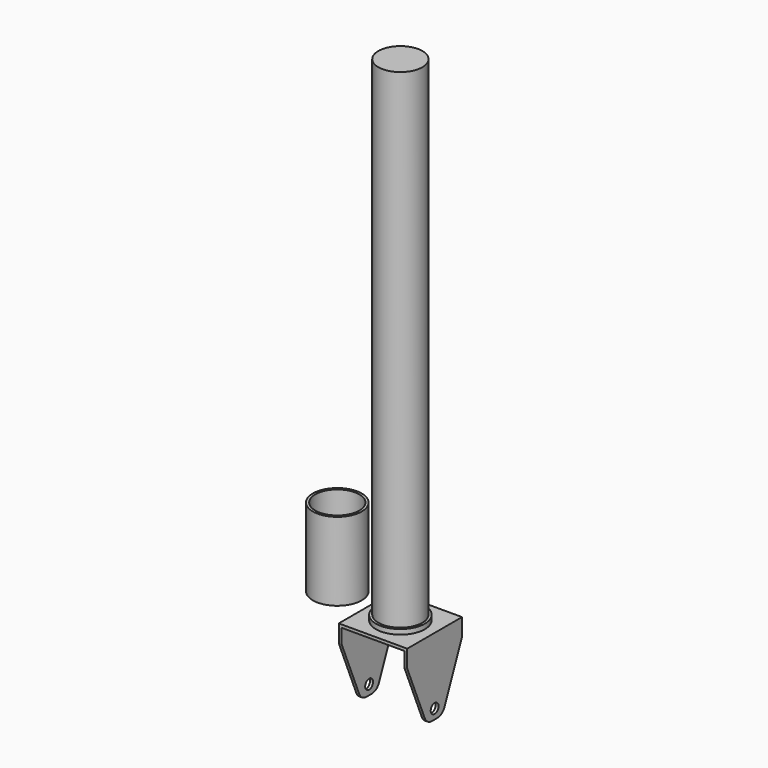
from build123d import *

# Parameters (mm, degrees)
F0_R      = 25
F0_R_2    = 22.5
F1_DEPTH  = 80
F2_R      = 22.5
F3_DEPTH  = 500
F4_R      = 25
F5_DEPTH  = 5
F6_W      = 70
F6_H      = 70
F7_DEPTH  = 3
F8_W      = 3
F8_H      = 70
F9_DEPTH  = 75
F10_SIZE2 = 60
F10_SIZE  = 25
F11_SIZE2 = 60
F11_SIZE  = 25
F13_D     = 10
F14_R     = 10


with BuildPart() as f1:
    # F0 (on Top) → F1 (new body)
    with BuildSketch(Plane.XY):
        with Locations((-100.1517296412, 0)):
            Circle(F0_R)
        with Locations((-100.1517296412, 0)):
            Circle(F0_R_2, mode=Mode.SUBTRACT)
    extrude(amount=F1_DEPTH)


with BuildPart() as f3:
    # F2 (on Top) → F3 (new body)
    with BuildSketch(Plane.XY):
        with Locations((-35.6460149927, 0)):
            Circle(F2_R)
    extrude(amount=F3_DEPTH)

    # F4 (on face) → F5 (join)
    with BuildSketch(Plane(origin=(0, 0, 0), x_dir=(1, 0, 0), z_dir=(0, 0, -1))):
        with Locations((-35.6460149927, 0)):
            Circle(F4_R)
    extrude(amount=F5_DEPTH)

    # F6 (on face) → F7 (join)
    with BuildSketch(Plane(origin=(0, 0, -5), x_dir=(1, 0, 0), z_dir=(0, 0, -1))):
        with Locations((-35.6460149927, 0)):
            Rectangle(F6_W, F6_H)
    extrude(amount=F7_DEPTH)

    # F8 (on face) → F9 (join)
    with BuildSketch(Plane(origin=(0, 0, -8), x_dir=(1, 0, 0), z_dir=(0, 0, -1))):
        with Locations((-69.1460149927, 0)):
            Rectangle(F8_W, F8_H)
        with Locations((-2.1460149927, 0)):
            Rectangle(F8_W, F8_H)
    extrude(amount=F9_DEPTH)

    # F10
    f10_edges = [f3.edges().sort_by_distance(p)[0] for p in [
        (-69.146015, -35, -83),
        (-69.146015, 35, -83),
    ]]
    f10_side = f3.faces().sort_by_distance((-69.146015, 0, -83))[0]
    chamfer(f10_edges, length=F10_SIZE, length2=F10_SIZE2, reference=f10_side)

    # F11
    f11_edges = [f3.edges().sort_by_distance(p)[0] for p in [
        (-2.146015, 35, -83),
        (-2.146015, -35, -83),
    ]]
    f11_side = f3.faces().sort_by_distance((-2.146015, 0, -83))[0]
    chamfer(f11_edges, length=F11_SIZE, length2=F11_SIZE2, reference=f11_side)

    # F13 (through all)
    with Locations(Plane.YZ.offset(-0.6460149927)):
        with Locations((0, -73)):
            Hole(F13_D / 2)

    # F14
    f14_edges = [f3.edges().sort_by_distance(p)[0] for p in [
        (-2.146015, 10, -83),
        (-2.146015, -10, -83),
        (-69.146015, -10, -83),
        (-69.146015, 10, -83),
    ]]
    fillet(f14_edges, radius=F14_R)


solid = Compound([f1.part, f3.part])
